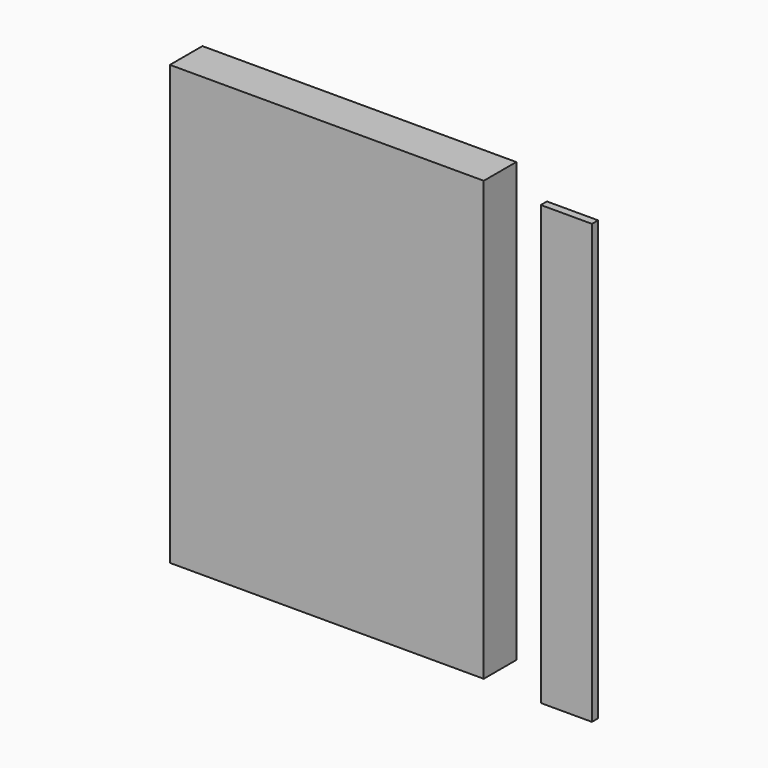
from build123d import *

# Parameters (mm, degrees)
F0_W     = 192.591786
F0_H     = 28.951026
F0_W_2   = 1181.774557
F0_H_2   = 153.014272
F1_DEPTH = 1651


with BuildPart() as f1:
    # F0 (on Top) → F1 (new body)
    with BuildSketch(Plane.XY):
        with Locations((96.295893, -14.475513)):
            Rectangle(F0_W, F0_H)
        with Locations((-818.133264, 63.082472)):
            Rectangle(F0_W_2, F0_H_2)
    extrude(amount=F1_DEPTH)


solid = f1.part
